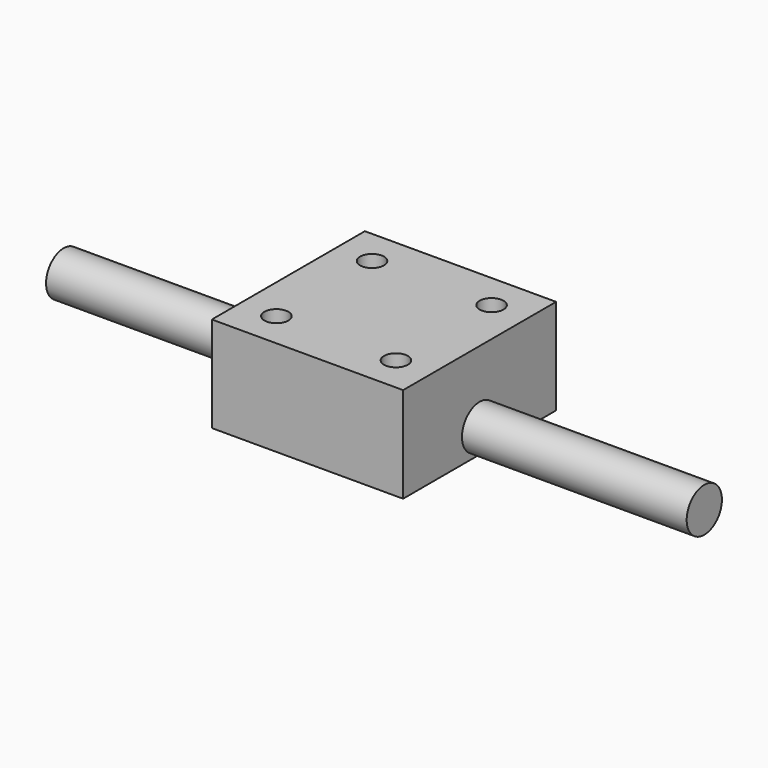
from build123d import *

# Parameters (mm, degrees)
F0_W     = 50.8
F0_H     = 50.8
F0_R     = 3.175
F1_DEPTH = 12.7
F2_R     = 5.851263
F3_DEPTH = 85.09


with BuildPart() as f1:
    # F0 (on Top) → F1 (new body, symmetric)
    with BuildSketch(Plane.XY):
        Rectangle(F0_W, F0_H)
        with Locations((-15.875, -15.875)):
            Circle(F0_R, mode=Mode.SUBTRACT)
        with Locations((15.875, -15.875)):
            Circle(F0_R, mode=Mode.SUBTRACT)
        with Locations((-15.875, 15.875)):
            Circle(F0_R, mode=Mode.SUBTRACT)
        with Locations((15.875, 15.875)):
            Circle(F0_R, mode=Mode.SUBTRACT)
    extrude(amount=F1_DEPTH, both=True)

    # F2 (on Right) → F3 (join)
    with BuildSketch(Plane.YZ):
        with Locations((0, -6.202326)):
            Circle(F2_R)
    extrude(amount=F3_DEPTH)

    # F4: F1 across plane


with BuildPart() as f1_1:
    add(f1.part)
    add(f1.part.mirror(Plane.YZ))


solid = f1_1.part
